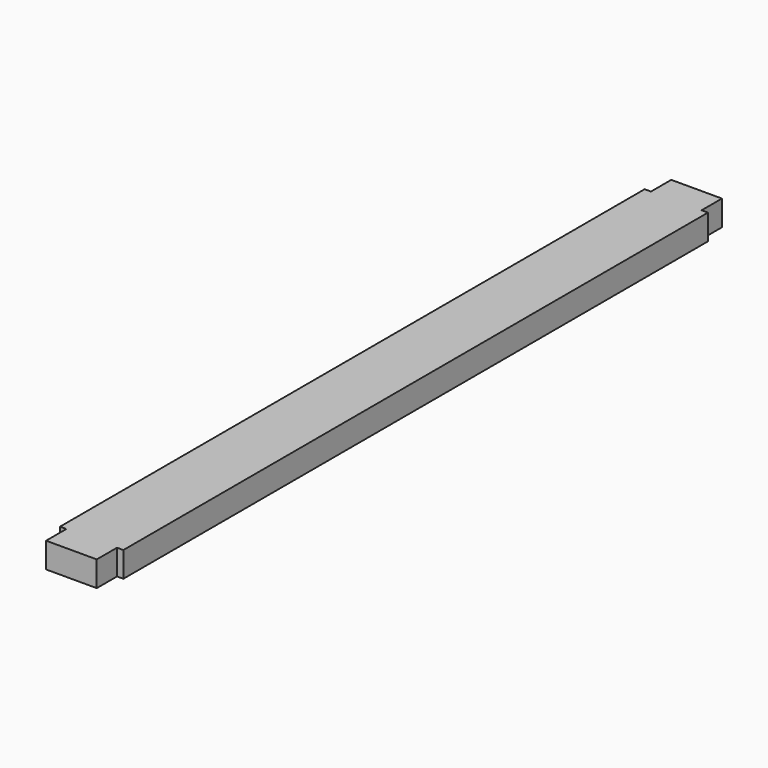
from build123d import *

# Parameters (mm, degrees)
F1_DEPTH = 6


with BuildPart() as f1:
    # F0 (on Top) → F1 (new body)
    with BuildSketch(Plane.XY):
        Polygon((-7.5, 86.55), (-7.5, 0), (-7.5, -86.55), (-6, -86.55), (-6, -92.55), (0, -92.55), (6, -92.55), (6, -86.55), (7.5, -86.55), (7.5, 0), (7.5, 86.55), (6, 86.55), (6, 92.55), (0, 92.55), (-6, 92.55), (-6, 86.55), align=None)
    extrude(amount=F1_DEPTH)


solid = f1.part
